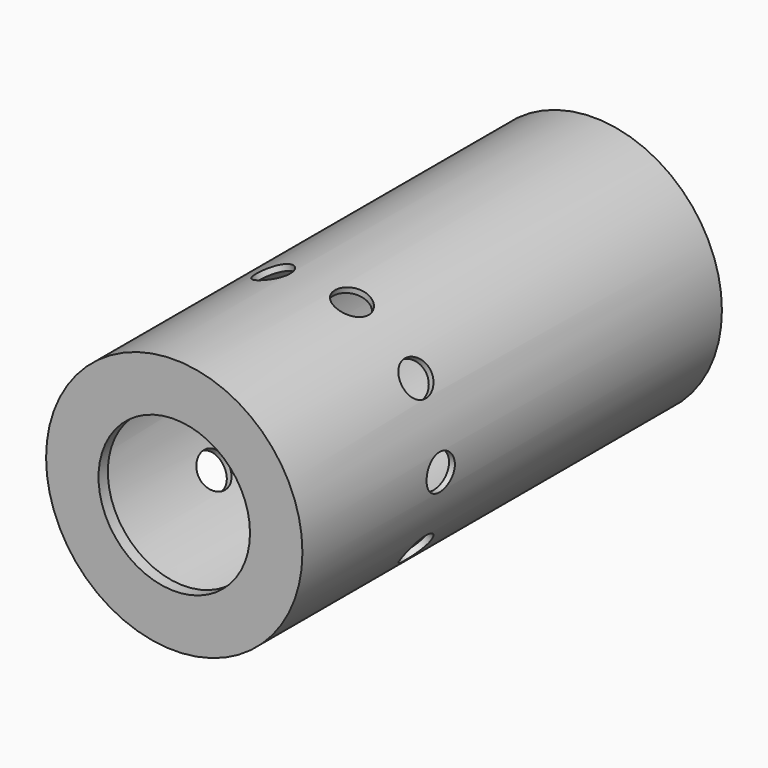
from build123d import *

# Parameters (mm, degrees)
F0_R      = 27.94
F1_DEPTH  = 114.3
F2_R      = 16.51
F3_DEPTH  = 116.84
F4_R      = 3.8575305099
F5_DEPTH  = 152.4
F6_R      = 26.67
F7_DEPTH  = 111.76
F8_DEPTH  = 12.7
F9_COUNT  = 10
F10_DEPTH = 7.62


with BuildPart() as f1:
    # F0 (on Front) → F1 (new body)
    with BuildSketch(Plane.XZ):
        Circle(F0_R)
    extrude(amount=F1_DEPTH)

    # F2 (on face) → F3 (cut)
    with BuildSketch(Plane.XZ.offset(114.3)):
        Circle(F2_R)
    extrude(amount=-F3_DEPTH, mode=Mode.SUBTRACT)

    # F4 (on Right) → F5 (cut, symmetric)
    with BuildSketch(Plane.YZ):
        with Locations((-76.6168683767, 0)):
            Circle(F4_R)
    f5 = extrude(amount=F5_DEPTH, both=True, mode=Mode.SUBTRACT)

    # F6 (on Front) → F7 (cut)
    with BuildSketch(Plane.XZ):
        Circle(F6_R)
    extrude(amount=F7_DEPTH, mode=Mode.SUBTRACT)

    # F0 (on Front) → F8 (join)
    with BuildSketch(Plane.XZ):
        Circle(F0_R)
    extrude(amount=F8_DEPTH)

    # F9: F5 ×10 about axis
    f9_axis = Axis((0, 0, 0), (0, -1, 0))
    for i in range(1, F9_COUNT):
        add(f5.rotate(f9_axis, i * 360 / F9_COUNT), mode=Mode.SUBTRACT)

    # F6 (on Front) → F10 (join)
    with BuildSketch(Plane.XZ):
        Circle(F6_R)
    extrude(amount=F10_DEPTH)


solid = f1.part
